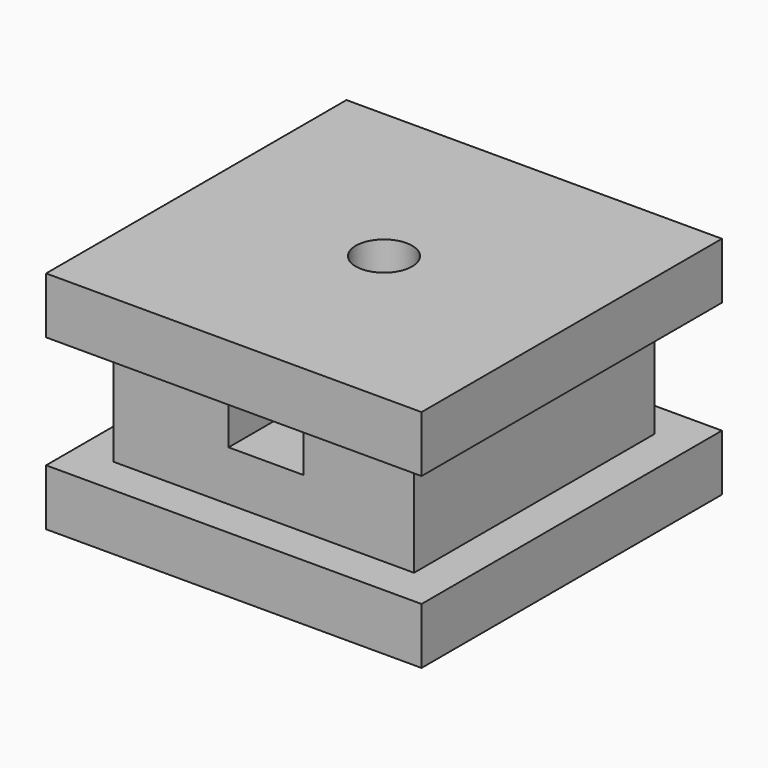
from build123d import *

# Parameters (mm, degrees)
F0_W          = 101.6
F0_H          = 38.089089331
F1_DEPTH      = 101.6
F2_DEPTH      = 114.3
F2_DEPTH_BACK = 12.7
F3_W          = 25.4
F3_H          = 20.1185690239
F4_DEPTH      = 114.301
F6_D          = 19.05
F6_DEPTH      = 19.05
F6_TIP        = 5.7231973962


with BuildPart() as f1:
    # F0 (on Front) → F1 (new body)
    with BuildSketch(Plane.XZ):
        with Locations((11.9261237085, -10.133718954)):
            Rectangle(F0_W, F0_H)
    extrude(amount=-F1_DEPTH)

    # F0 (on Front) → F2 (join, two sides)
    with BuildSketch(Plane.XZ) as f2_sk:
        Polygon((75.4261237085, 27.9608257115), (-51.5738762915, 27.9608257115), (-51.5738762915, 8.9108257115), (-38.8738762915, 8.9108257115), (62.7261237085, 8.9108257115), (75.4261237085, 8.9108257115), align=None)
        Polygon((62.7261237085, -29.1782636195), (-38.8738762915, -29.1782636195), (-51.5738762915, -29.1782636195), (-51.5738762915, -48.2282636195), (75.4261237085, -48.2282636195), (75.4261237085, -29.1782636195), align=None)
    extrude(amount=-F2_DEPTH)
    extrude(f2_sk.sketch, amount=F2_DEPTH_BACK)

    # F3 (on Front) → F4 (cut, through all)
    with BuildSketch(Plane.XZ):
        with Locations((12.7, -2.1666153334)):
            Rectangle(F3_W, F3_H)
    extrude(amount=-F4_DEPTH, mode=Mode.SUBTRACT)

    # F6
    with Locations(Plane.XY.offset(27.9608257115)):
        with Locations((11.9261237085, 50.8)):
            Hole(F6_D / 2, depth=F6_DEPTH)
            with Locations((0, 0, -(F6_DEPTH + F6_TIP / 2))):  # 118° drill point
                Cone(0, F6_D / 2, F6_TIP, mode=Mode.SUBTRACT)


solid = f1.part
